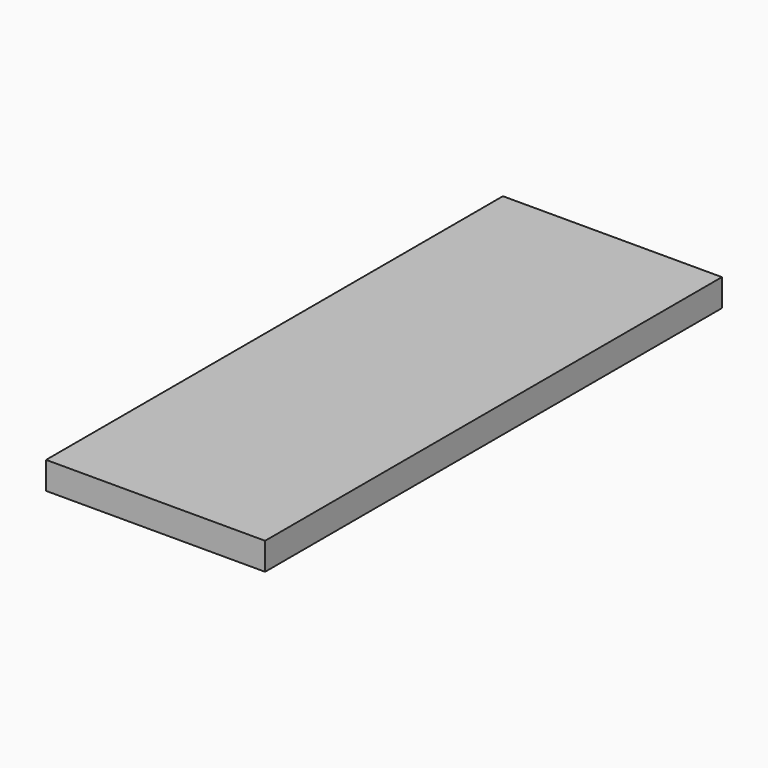
from build123d import *

# Parameters (mm, degrees)
SKETCH_W  = 11.699101
SKETCH_H  = 30.498592
PAD_DEPTH = 1.46


with BuildPart() as part:
    # Sketch → Pad (new body)
    with BuildSketch(Plane.XY):
        with Locations((5.84955, -15.249296)):
            Rectangle(SKETCH_W, SKETCH_H)
    extrude(amount=PAD_DEPTH)


solid = part.part
